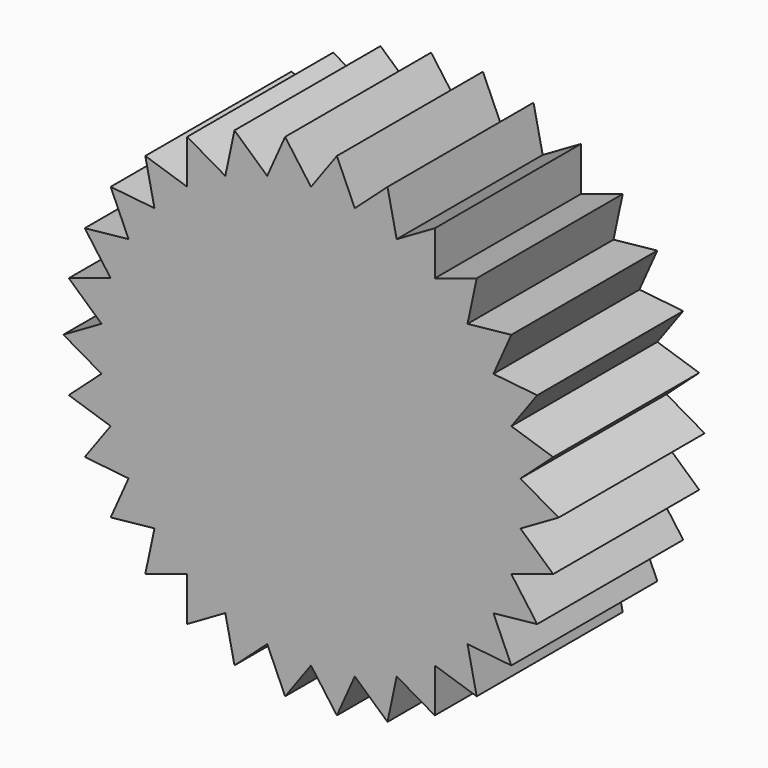
from build123d import *

# Parameters (mm, degrees)
F1_DEPTH = 25.4


with BuildPart() as f1:
    # F0 (on Front) → F1 (new body)
    with BuildSketch(Plane.XZ):
        Polygon((10.647771, 32.770469), (6.094058, 28.670287), (3.601728, 34.268151), (0, 29.310798), (-3.601728, 34.268151), (-6.094058, 28.670287), (-10.647771, 32.770469), (-11.921776, 26.776747), (-17.228455, 29.840559), (-17.228455, 23.712934), (-23.056173, 25.606474), (-21.782168, 19.612752), (-27.876226, 20.253263), (-25.383896, 14.655399), (-31.477954, 14.014888), (-27.876226, 9.057535), (-33.703944, 7.163994), (-29.150231, 3.063813), (-34.45691, 0), (-29.150231, -3.063813), (-33.703944, -7.163994), (-27.876226, -9.057535), (-31.477954, -14.014888), (-25.383896, -14.655399), (-27.876226, -20.253263), (-21.782168, -19.612752), (-23.056173, -25.606474), (-17.228455, -23.712934), (-17.228455, -29.840559), (-11.921776, -26.776747), (-10.647771, -32.770469), (-6.094058, -28.670287), (-3.601728, -34.268151), (0, -29.310798), (3.601728, -34.268151), (6.094058, -28.670287), (10.647771, -32.770469), (11.921776, -26.776747), (17.228455, -29.840559), (17.228455, -23.712934), (23.056173, -25.606474), (21.782168, -19.612752), (27.876226, -20.253263), (25.383896, -14.655399), (31.477954, -14.014888), (27.876226, -9.057535), (33.703944, -7.163994), (29.150231, -3.063813), (34.45691, 0), (29.150231, 3.063813), (33.703944, 7.163994), (27.876226, 9.057535), (31.477954, 14.014888), (25.383896, 14.655399), (27.876226, 20.253263), (21.782168, 19.612752), (23.056173, 25.606474), (17.228455, 23.712934), (17.228455, 29.840559), (11.921776, 26.776747), align=None)
    extrude(amount=F1_DEPTH)


solid = f1.part
